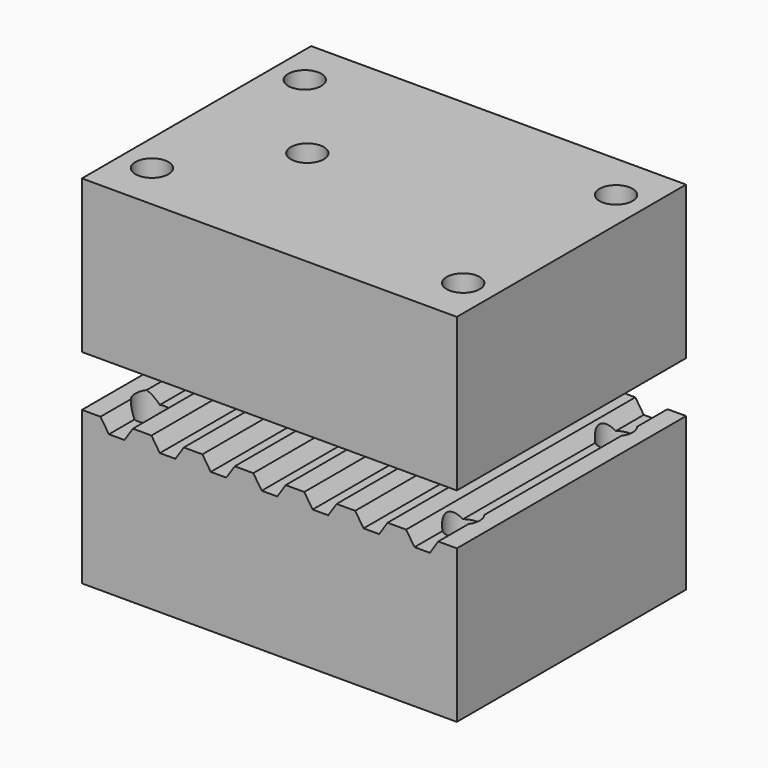
from build123d import *

# Parameters (mm, degrees)
F0_W     = 37.389658
F0_H     = 15.24
F1_DEPTH = 28.575
F2_R     = 1.651
F3_DEPTH = 35.561
F4_R     = 1.651
F5_DEPTH = 15.24


with BuildPart() as f1:
    # F0 (on Front) → F1 (new body)
    with BuildSketch(Plane.XZ):
        with Locations((18.694829, 12.7)):
            Rectangle(F0_W, F0_H)
        Polygon((2.689407, -1.27), (1.852701, 0), (0, 0), (0, -15.24), (37.389658, -15.24), (37.389658, 0), (35.536956, 0), (34.70025, -1.27), (33.169399, -1.27), (32.332693, 0), (30.479987, 0), (29.643282, -1.27), (28.089399, -1.27), (27.252693, 0), (25.399987, 0), (24.563282, -1.27), (23.009399, -1.27), (22.172693, 0), (20.319992, 0), (19.483286, -1.27), (17.929403, -1.27), (17.092697, 0), (15.239992, 0), (14.403286, -1.27), (12.849403, -1.27), (12.012697, 0), (10.159996, 0), (9.32329, -1.27), (7.769407, -1.27), (6.932701, 0), (5.079996, 0), (4.24329, -1.27), align=None)
    extrude(amount=F1_DEPTH)

    # F2 (on face) → F3 (cut, through all)
    with BuildSketch(Plane.XY.offset(20.32)):
        with Locations((3.175, -4.7625)):
            Circle(F2_R)
        with Locations((3.175, -23.8125)):
            Circle(F2_R)
        with Locations((34.214658, -4.7625)):
            Circle(F2_R)
        with Locations((34.214658, -23.8125)):
            Circle(F2_R)
    extrude(amount=-F3_DEPTH, mode=Mode.SUBTRACT)

    # F4 (on face) → F5 (cut, through all)
    with BuildSketch(Plane.XY.offset(20.32)):
        with Locations((11.049, -14.2875)):
            Circle(F4_R)
    extrude(amount=-F5_DEPTH, mode=Mode.SUBTRACT)


solid = f1.part
